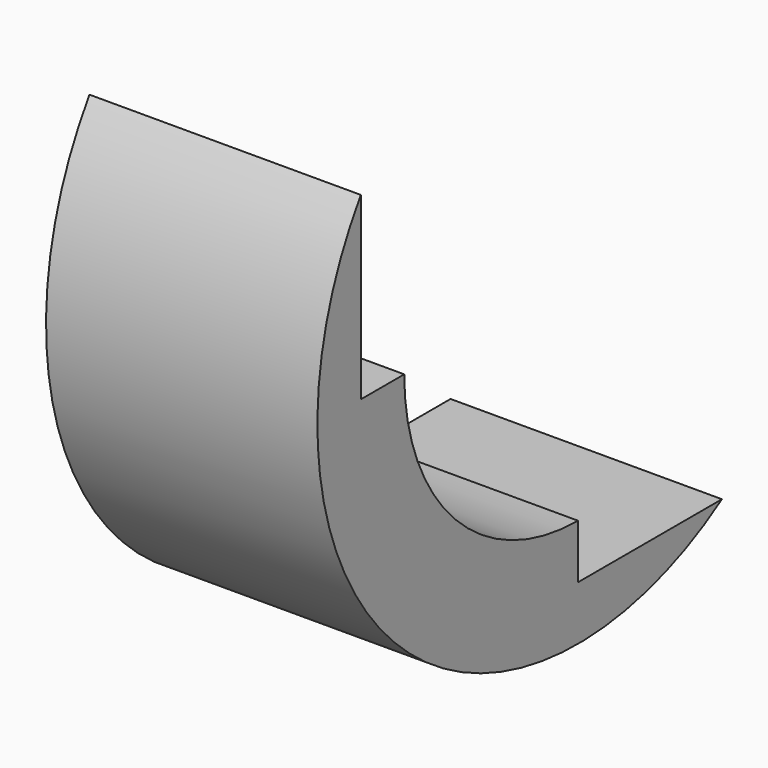
from build123d import *

# Parameters (mm, degrees)
BOX026_W      = 5
BOX026_H      = 10
BOX026_DEPTH  = 8
BOX025_W      = 5
BOX025_H      = 8
BOX025_DEPTH  = 10
TUBE010_R     = 6
TUBE010_R_2   = 4
TUBE010_DEPTH = 5


with BuildPart() as cube026:
    # Box026 → Box026 (new body)
    with BuildSketch(Plane(origin=(0, -2, 3), x_dir=(1, 0, 0), z_dir=(0, 0, 1))):
        with Locations((2.5, 5)):
            Rectangle(BOX026_W, BOX026_H)
    extrude(amount=BOX026_DEPTH)


with BuildPart() as cube025:
    # Box025 → Box025 (new body)
    with BuildSketch(Plane(origin=(0, 3, -2), x_dir=(1, 0, 0), z_dir=(0, 0, 1))):
        with Locations((2.5, 4)):
            Rectangle(BOX025_W, BOX025_H)
    extrude(amount=BOX025_DEPTH)


with BuildPart() as cut030:
    # Tube010 → Tube010 (new body)
    with BuildSketch(Plane(origin=(0, 3, 3), x_dir=(0, 0, -1), z_dir=(1, 0, 0))):
        Circle(TUBE010_R)
        Circle(TUBE010_R_2, mode=Mode.SUBTRACT)
    extrude(amount=TUBE010_DEPTH)

    # Cut029: cut Cube025
    add(cube025.part, mode=Mode.SUBTRACT)

    # Cut030: cut Cube026
    add(cube026.part, mode=Mode.SUBTRACT)


solid = cut030.part
